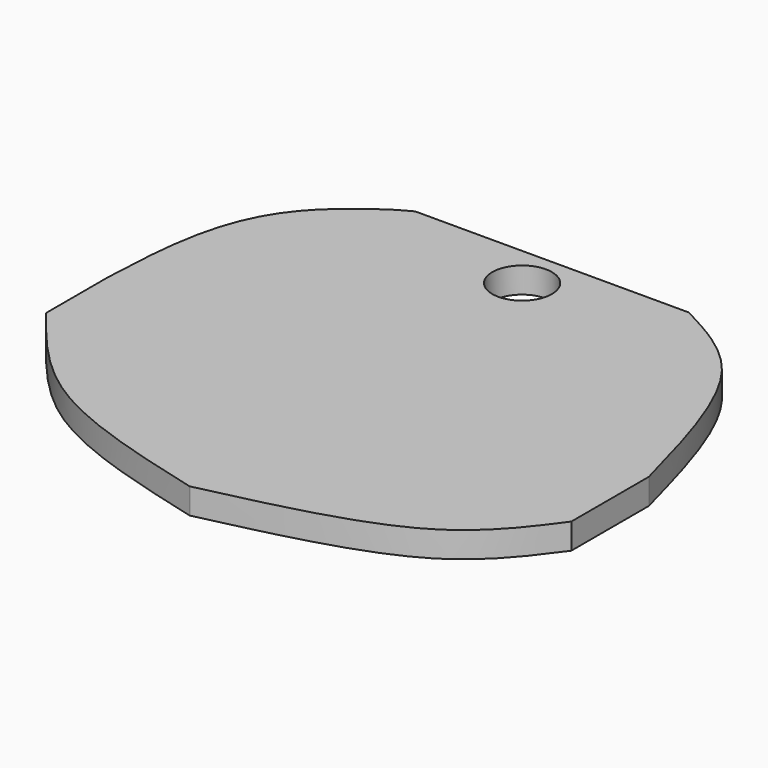
from build123d import *

# Parameters (mm, degrees)
F0_W      = 400
F0_H      = 350
F1_DEPTH  = 19
F3_DEPTH  = 19.001
F5_DEPTH  = 19.0010001
F8_DEPTH  = 19.0010001
F9_R      = 22.041602622
F10_DEPTH = 19.0010001


with BuildPart() as f1:
    # F0 (on Top) → F1 (new body)
    with BuildSketch(Plane.XY):
        Rectangle(F0_W, F0_H)
    extrude(amount=F1_DEPTH)

    # F2 (on face) → F3 (cut, through all)
    with BuildSketch(Plane.XY.offset(19)):
        with BuildLine():
            Line((-200, 175), (-200, 0))
            add(Edge.make_bspline(
                [(-200, 0), (-197.9354059876, 47.0718279126), (-194.3381993041, 129.0865450701), (-116.4199550867, 173.9492192316), (-112.5868335366, 175)],
                knots=[0, 0, 0, 0, 0.5533709859, 0.9641555662, 0.9641555662, 0.9641555662, 0.9641555662], degree=3))
            Line((-112.5868335366, 175), (-200, 175))
        make_face()
    extrude(amount=-F3_DEPTH, mode=Mode.SUBTRACT)

    # F4 (on face) → F5 (cut, through all)
    with BuildSketch(Plane.XY.offset(19)):
        with BuildLine():
            add(Edge.make_bspline(
                [(200, 0), (186.7244970993, 49.4813033152), (163.5787269472, 135.7516978857), (111.7638804337, 163.2665740198), (89.6679908037, 175)],
                knots=[0, 0, 0, 0, 0.5735606469, 1, 1, 1, 1], degree=3))
            Line((200, 0), (200, 175))
            Line((200, 175), (89.6679908037, 175))
        make_face()
    extrude(amount=-F5_DEPTH, mode=Mode.SUBTRACT)

    # F6 (on face) + F7 (on face) → F8 (cut, through all)
    with BuildSketch(Plane.XY.offset(19)):
        with BuildLine():
            Line((-200, -175), (0, -175))
            add(Edge.make_bspline(
                [(0, -175), (-47.4363116832, -162.5537951207), (-135.1863297266, -139.5301943393), (-179.5970382425, -83.2807067772), (-200, -57.4388280511)],
                knots=[0, 0, 0, 0, 0.5405846374, 1, 1, 1, 1], degree=3))
            Line((-200, -57.4388280511), (-200, -175))
        make_face()
    with BuildSketch(Plane.XY.offset(19)):
        with BuildLine():
            add(Edge.make_bspline(
                [(0.6422742583, -175), (55.1586444169, -162.6567958418), (148.7558794279, -141.3724859979), (184.9953796241, -92.3328411017), (200, -71.7412712825)],
                knots=[0.0022640226, 0.0022640226, 0.0022640226, 0.0022640226, 0.5787782178, 0.9934410048, 0.9934410048, 0.9934410048, 0.9934410048], degree=3))
            Line((0.6422742583, -175), (200, -175))
            Line((200, -175), (200, -71.7412712825))
        make_face()
    extrude(amount=-F8_DEPTH, mode=Mode.SUBTRACT)

    # F9 (on face) → F10 (cut, through all)
    with BuildSketch(Plane.XY.offset(19)):
        with Locations((-8.6059067398, 143.5507237911)):
            Circle(F9_R)
    extrude(amount=-F10_DEPTH, mode=Mode.SUBTRACT)


solid = f1.part
